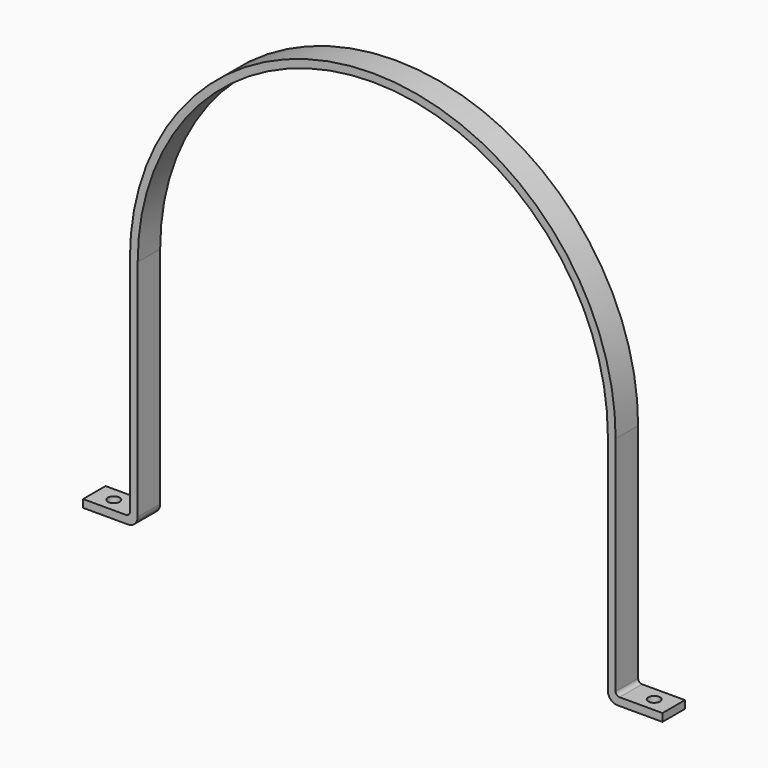
from build123d import *

# Parameters (mm, degrees)
F1_DEPTH = 22.86
F2_R     = 9.525
F3_DEPTH = 25.4
F4_R     = 6.35
F5_R     = 15.875


with BuildPart() as f1:
    # F0 (on Front) → F1 (new body, symmetric)
    with BuildSketch(Plane.XZ):
        with BuildLine():
            Line((382.5875, -381), (471.4875, -381))
            Line((471.4875, -381), (471.4875, -368.3))
            Line((471.4875, -368.3), (395.2875, -368.3))
            Line((395.2875, -368.3), (395.2875, 0))
            ThreePointArc((395.2875, 0), (0, 395.2875), (-395.2875, 0))
            Line((-395.2875, 0), (-395.2875, -368.3))
            Line((-395.2875, -368.3), (-471.4875, -368.3))
            Line((-471.4875, -368.3), (-471.4875, -381))
            Line((-471.4875, -381), (-382.5875, -381))
            Line((-382.5875, -381), (-382.5875, 0))
            ThreePointArc((-382.5875, 0), (0, 382.5875), (382.5875, 0))
            Line((382.5875, 0), (382.5875, -381))
        make_face()
    extrude(amount=F1_DEPTH, both=True)

    # F2 (on face) → F3 (cut)
    with BuildSketch(Plane(origin=(0, 0, -381), x_dir=(1, 0, 0), z_dir=(0, 0, -1))):
        with Locations((-439.7375, 0)):
            Circle(F2_R)
        with Locations((439.7375, 0)):
            Circle(F2_R)
    extrude(amount=-F3_DEPTH, mode=Mode.SUBTRACT)

    # F4
    f4_edges = [f1.edges().sort_by_distance(p)[0] for p in [
        (-395.2875, 0, -368.3),
        (395.2875, 0, -368.3),
    ]]
    fillet(f4_edges, radius=F4_R)

    # F5
    f5_edges = [f1.edges().sort_by_distance(p)[0] for p in [
        (-382.5875, 0, -381),
        (382.5875, 0, -381),
    ]]
    fillet(f5_edges, radius=F5_R)


solid = f1.part
